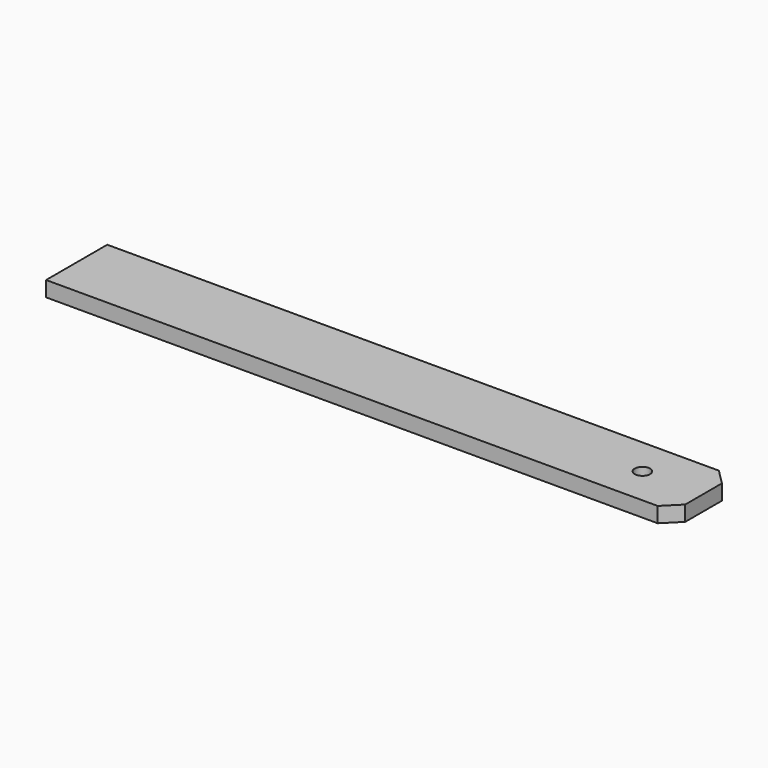
from build123d import *

# Parameters (mm, degrees)
F0_W     = 520.7
F0_H     = 63.5
F0_R     = 6.35
F1_DEPTH = 12.7
F2_SIZE  = 12.7


with BuildPart() as f1:
    # F0 (on Top) → F1 (new body)
    with BuildSketch(Plane.XY):
        with Locations((-209.55, 0)):
            Rectangle(F0_W, F0_H)
        Circle(F0_R, mode=Mode.SUBTRACT)
    extrude(amount=F1_DEPTH)

    # F2
    f2_edges = [f1.edges().sort_by_distance(p)[0] for p in [
        (50.8, -31.75, 6.35),
        (50.8, 31.75, 6.35),
    ]]
    chamfer(f2_edges, length=F2_SIZE)


solid = f1.part
